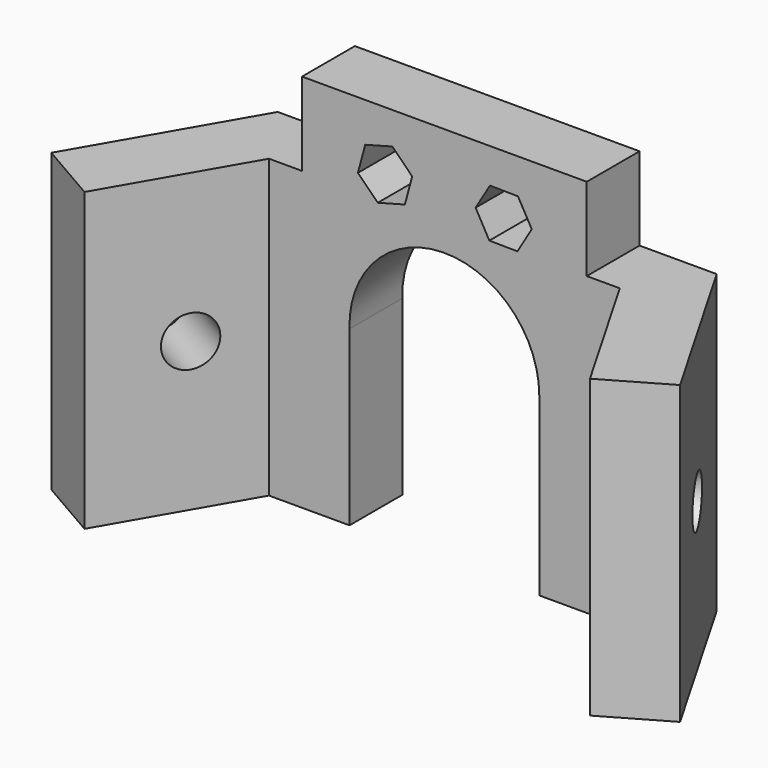
from build123d import *

# Parameters (mm, degrees)
F1_DEPTH  = 25
F3_D      = 4.2
F5_D      = 4.2
F7_DEPTH  = 7
F9_DEPTH  = 25
F11_D     = 2.5
F13_DEPTH = 4


with BuildPart() as f1:
    # F0 (on Top) → F1 (new body)
    with BuildSketch(Plane.XY):
        Polygon((18.5, 0), (0, 0), (-18.5, 0), (-26.5, -13.856406), (-21.303848, -16.856406), (-14.785898, -5.566987), (0, -5.566987), (14.785898, -5.566987), (21.303848, -16.856406), (26.5, -13.856406), align=None)
    extrude(amount=F1_DEPTH)

    # F3 (through all)
    with Locations(Plane(origin=(-13.875, 8.010735, 0), x_dir=(-0.5, -0.866025, 0), z_dir=(-0.866025, 0.5, 0))):
        with Locations((17.75, 12.5)):
            Hole(F3_D / 2)

    # F5 (through all)
    with Locations(Plane(origin=(13.875, 8.010735, 0), x_dir=(-0.5, 0.866025, 0), z_dir=(0.866025, 0.5, 0))):
        with Locations((-17.75, 12.5)):
            Hole(F5_D / 2)

    # F6 (on face) → F7 (join)
    with BuildSketch(Plane.XY.offset(25)):
        Polygon((12, 0), (0, 0), (-12, 0), (-12, -5.566987), (12, -5.566987), align=None)
        Polygon((12, 0), (0, 0), (-12, 0), (-12, -5.566987), (12, -5.566987), align=None)
    extrude(amount=F7_DEPTH)

    # F8 (on face) → F9 (cut)
    with BuildSketch(Plane(origin=(0, 0, 0), x_dir=(-1, 0, 0), z_dir=(0, 1, 0))):
        with BuildLine():
            Line((7.996367, 0), (7.996367, 14.581786))
            ThreePointArc((7.996367, 14.581786), (0.121529, 22.821933), (-8, 14.824817))
            Line((-8, 14.824817), (-8.003633, 0))
            Line((-8.003633, 0), (7.996367, 0))
        make_face()
    extrude(amount=-F9_DEPTH, mode=Mode.SUBTRACT)

    # F11 (through all)
    with Locations(Plane(origin=(0, 0, 0), x_dir=(-1, 0, 0), z_dir=(0, 1, 0))):
        with Locations((5, 27), (-5, 27)):
            Hole(F11_D / 2)

    # F12 (on face) → F13 (cut)
    with BuildSketch(Plane.XZ.offset(5.566987)):
        Polygon((-5.614794, 24.714095), (-3.327745, 25.32462), (-2.712951, 27.610525), (-4.385206, 29.285905), (-6.672255, 28.67538), (-7.287049, 26.389475), align=None)
        Polygon((6.158304, 24.93562), (7.366958, 26.970931), (6.208654, 29.035311), (3.841696, 29.06438), (2.633042, 27.029069), (3.791346, 24.964689), align=None)
    extrude(amount=-F13_DEPTH, mode=Mode.SUBTRACT)


solid = f1.part
